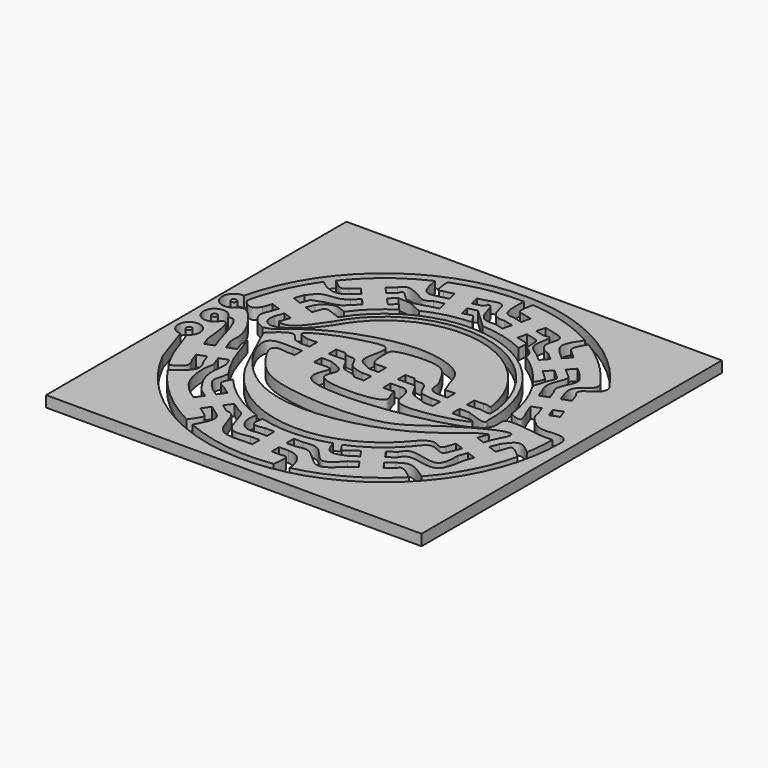
from build123d import *

# Parameters (mm, degrees)
F0_W     = 34
F0_H     = 34
F1_DEPTH = 1
F0_R     = 0.25


with BuildPart() as f1:
    # F0 (on Top) → F1 (new body)
    with BuildSketch(Plane.XY):
        Rectangle(F0_W, F0_H)
        with BuildLine():
            Line((-12.3942, -3.6043), (-13.1929, -3.895))
            Line((-13.1929, -3.895), (-13.4837, -3.0963))
            add(Edge.make_bspline(
                [(-14.4111951692, -0.3796), (-14.2723168652, -0.333150532), (-13.7637527497, -0.1630553338), (-13.6015839017, -1.8615957301), (-13.4837, -3.0963)],
                knots=[0, 0, 0, 0, 0.2730792435, 1, 1, 1, 1], degree=3))
            ThreePointArc((-14.4111951692, -0.3796), (-16.3360521087, 0.0242375493), (-14.3938864033, 0.334320404))
            add(Edge.make_bspline(
                [(-14.3938864033, 0.334320404), (-14.2314768695, 0.3888644718), (-13.6407061503, 0.5872705466), (-13.0866441252, -1.3794518051), (-12.6849, -2.8055)],
                knots=[0, 0, 0, 0, 0.2749112788, 1, 1, 1, 1], degree=3))
            Line((-12.6849, -2.8055), (-12.3942, -3.6043))
        make_face(mode=Mode.SUBTRACT)
        with BuildLine():
            Line((-12.3037, -6.3382), (-12.5944, -5.5395))
            Line((-12.5944, -5.5395), (-13.1929, -3.895))
            Line((-13.1929, -3.895), (-11.6366025934, -3.3363206687))
            Line((-11.6366025934, -3.3363206687), (-11.9623076171, -2.4413321138))
            add(Edge.make_bspline(
                [(-11.9623076171, -2.4413321138), (-12.0117438017, -2.0093642628), (-11.8778029311, -1.5889280388), (-12.1962155535, -0.4558379807), (-12.6179651821, 0.3808291546), (-14.1472270198, 2.4649739349), (-14.740530091, 1.9576579669), (-14.9547481382, 1.7849856331)],
                knots=[0, 0, 0, 0, 0.177908405, 0.3643697471, 0.5595759304, 0.8370710148, 1, 1, 1, 1], degree=3))
            ThreePointArc((-14.9547481382, 1.7849856331), (-16.667332402, 2.2391619977), (-15.5807628681, 3.6386575064))
            ThreePointArc((-15.5807628681, 3.6386575064), (-2.8095439505, 15.7513955823), (13.3619085918, 8.8011021346))
            add(Edge.make_bspline(
                [(12.3037, 6.3382), (12.1532630592, 6.5486063429), (11.7818249767, 6.9954969584), (13.105979023, 7.6972691386), (13.3587491275, 7.9789756018), (13.5794370405, 8.5435568989), (13.3619085918, 8.8011021346)],
                knots=[0, 0, 0, 0, 0.230902707, 0.5512460955, 0.7468321467, 1, 1, 1, 1], degree=3))
            Line((12.3037, 6.3382), (12.5944, 5.5395))
            Line((12.5944, 5.5395), (13.1929, 3.895))
            Line((13.1929, 3.895), (11.6366025934, 3.3363206687))
            Line((11.6366025934, 3.3363206687), (11.926, 2.5411))
            add(Edge.make_bspline(
                [(11.926, 2.5411), (11.9783592808, 1.9046605956), (12.6042999826, 1.3759503504), (13.6260807813, 0.4466593936), (15.964851719, 1.21306594), (16, 0)],
                knots=[0, 0, 0, 0, 0.3022500444, 0.6057690152, 1, 1, 1, 1], degree=3))
            ThreePointArc((16, 0), (3.6749601747, -15.5722402921), (-14.3118334643, -7.1534203631))
            Line((-14.3118334643, -7.1534203631), (-15.475182794, -3.6998244933))
            ThreePointArc((-15.475182794, -3.6998244933), (-15.7313133508, -1.7531123592), (-14.9803552777, -3.5673209932))
            Line((-14.9803552777, -3.5673209932), (-13.9958590699, -6.3382))
            ThreePointArc((-13.9958590699, -6.3382), (-13.5852221418, -7.1762517865), (-13.1244612858, -7.9878261313))
            add(Edge.make_bspline(
                [(-12.3037, -6.3382), (-12.1443201625, -6.6311046251), (-11.7878040977, -7.286301706), (-12.6485243864, -7.7380378065), (-13.1244612858, -7.9878261313)],
                knots=[0, 0, 0, 0, 0.4470481228, 1, 1, 1, 1], degree=3))
        make_face(mode=Mode.SUBTRACT)
        Polygon((12.3942, 3.6043), (13.1929, 3.895), (13.4837, 3.0963), (12.6849, 2.8055), align=None, mode=Mode.SUBTRACT)
        with BuildLine():
            Line((-13.4904, 3.0879), (-13.1997, 3.8866))
            Line((-13.1997, 3.8866), (-12.6011, 5.5311))
            Line((-12.6011, 5.5311), (-12.3104, 6.3801617362))
            add(Edge.make_bspline(
                [(-12.3104, 6.3801617362), (-12.0615672946, 6.5416639984), (-11.7932170076, 7.3717735581), (-9.9781053371, 7.4202997241), (-9.7576724511, 7.571282055), (-9.3391798437, 7.8681)],
                knots=[0, 0, 0, 0, 0.3171940039, 0.7022693868, 1, 1, 1, 1], degree=3))
            Line((-9.3391798437, 7.8681), (-8.7433, 8.4369))
            Line((-8.7433, 8.4369), (-8.1745, 7.8052))
            Line((-8.1745, 7.8052), (-9.2755568234, 9.0390177241))
            Line((-9.2755568234, 9.0390177241), (-9.9044, 8.4728))
            add(Edge.make_bspline(
                [(-9.9044, 8.4728), (-10.1851852438, 8.2487735199), (-10.7817869171, 7.8299894037), (-11.9803126556, 8.2985418933), (-12.5000296051, 8.8237408979)],
                knots=[0, 0, 0, 0, 0.4199734488, 1, 1, 1, 1], degree=3))
            ThreePointArc((-12.5000296051, 8.8237408979), (-14.0089069552, 6.1530211672), (-14.954729937, 3.2349955291))
            add(Edge.make_bspline(
                [(-14.954729937, 3.2349955291), (-14.903848545, 3.1176248561), (-14.7847609016, 2.8429193829), (-13.9617143725, 2.4096491853), (-13.6464557199, 2.8633260737), (-13.4904, 3.0879)],
                knots=[0, 0, 0, 0, 0.2736359675, 0.6404436134, 1, 1, 1, 1], degree=3))
        make_face()
        Polygon((-8.1745, 7.8052), (-6.7971020022, 8.943821583), (-7.4428, 9.6079), (-7.4136536487, 9.6341395599), (-7.9614768823, 10.2221569179), (-7.9722, 10.2125), (-8.541, 10.8442), (-9.8415, 9.6732), (-9.2728, 9.0415), (-9.2755568234, 9.0390177241), align=None)
        with BuildLine():
            Line((-7.9614768823, 10.2221569179), (-7.4136536487, 9.6341395599))
            Line((-7.4136536487, 9.6341395599), (-6.8111, 10.1766))
            add(Edge.make_bspline(
                [(-6.8111, 10.1766), (-6.4857697238, 10.1106233011), (-5.5602540008, 10.2101426251), (-4.930736312, 9.6928390914), (-4.4802636839, 9.5510594547)],
                knots=[0, 0, 0, 0, 0.4883621235, 1, 1, 1, 1], degree=3))
            ThreePointArc((-4.4802636839, 9.5510594547), (-2.5069797927, 10.2474656234), (-0.4350608214, 10.5406935951))
            add(Edge.make_bspline(
                [(-1.0306, 11.3584), (-0.8320869405, 11.0858311984), (-0.6335738809, 10.8132623967), (-0.4350608214, 10.5406935951)],
                knots=[0, 0, 0, 0, 1.0115881958, 1.0115881958, 1.0115881958, 1.0115881958], degree=3))
            Line((-1.0306, 11.3584), (-1.8554, 11.1527))
            Line((-1.8554, 11.1527), (-1.8589888717, 11.1670973804))
            Line((-1.8589888717, 11.1670973804), (-3.5534, 10.7294))
            Line((-3.5534, 10.7294), (-4.3782, 10.5237))
            add(Edge.make_bspline(
                [(-7.3406, 10.7813), (-7.2868814524, 10.930398055), (-7.1450559415, 11.3240406378), (-6.3748965753, 10.3215091839), (-5.6880220747, 10.0976471673), (-4.857468819, 10.3678056675), (-4.3782, 10.5237)],
                knots=[0, 0, 0, 0, 0.1673121203, 0.4417306125, 0.6778519521, 1, 1, 1, 1], degree=3))
            Line((-7.3406, 10.7813), (-7.9614768823, 10.2221569179))
        make_face()
        with BuildLine():
            Line((-10.4732, 9.1044), (-9.8415, 9.6732))
            Line((-9.8415, 9.6732), (-8.541, 10.8442))
            Line((-8.541, 10.8442), (-7.9093, 11.4129))
            add(Edge.make_bspline(
                [(-7.9093, 11.4129), (-7.7057717161, 11.6695607), (-7.3319160058, 12.0595873679), (-5.9658578674, 11.4039720868), (-5.1996716391, 10.8639860584), (-4.7689947782, 11.2526867573), (-4.5838, 11.3485)],
                knots=[0, 0, 0, 0, 0.229691089, 0.5396349406, 0.7851515706, 1, 1, 1, 1], degree=3))
            Line((-4.5838, 11.3485), (-3.759, 11.5541))
            Line((-3.759, 11.5541), (-3.5534, 10.7294))
            Line((-3.5534, 10.7294), (-1.8589888717, 11.1670973804))
            Line((-1.8589888717, 11.1670973804), (-2.061, 11.9775))
            Line((-2.061, 11.9775), (-2.0470912482, 11.9809674904))
            Line((-2.0470912482, 11.9809674904), (-2.2283101297, 12.7639855448))
            Line((-2.2283101297, 12.7639855448), (-2.2447, 12.7599))
            Line((-2.2447, 12.7599), (-2.4503, 13.5847))
            Line((-2.4503, 13.5847), (-4.1483, 13.1613))
            Line((-4.1483, 13.1613), (-3.9427, 12.3365))
            Line((-3.9427, 12.3365), (-3.9436994616, 12.3362508315))
            Line((-3.9436994616, 12.3362508315), (-4.7674, 12.1309))
            add(Edge.make_bspline(
                [(-4.7674, 12.1309), (-5.170627439, 12.0353381455), (-6.0964165448, 11.8159331266), (-6.3101863865, 13.107755444), (-6.4308487751, 13.8369245594)],
                knots=[0, 0, 0, 0, 0.4355499935, 1, 1, 1, 1], degree=3))
            ThreePointArc((-6.4308487751, 13.8369245594), (-9.4341166346, 11.9922366785), (-11.9340037927, 9.507673254))
            add(Edge.make_bspline(
                [(-10.4732, 9.1044), (-10.6267282888, 8.9658918579), (-11.0020516296, 8.6272875589), (-11.5878373022, 9.1806607329), (-11.9340037927, 9.507673254)],
                knots=[0, 0, 0, 0, 0.4090560649, 1, 1, 1, 1], degree=3))
        make_face()
        with BuildLine():
            Line((4.1482, 13.1155), (2.4502, 13.5389))
            Line((2.4502, 13.5389), (2.2446, 12.7142))
            Line((2.2446, 12.7142), (1.4198, 12.9198))
            add(Edge.make_bspline(
                [(1.4198, 12.9198), (1.1152116842, 12.9363907951), (0.3226856843, 12.9795593468), (0.4050922136, 14.4047622272), (0.4558277745, 15.2822226423)],
                knots=[0, 0, 0, 0, 0.3843259601, 1, 1, 1, 1], degree=3))
            ThreePointArc((0.4558277745, 15.2822226423), (-2.6351887685, 15.0602087636), (-5.6179398671, 14.2194535583))
            add(Edge.make_bspline(
                [(-4.9731, 12.9557), (-5.1209878518, 12.8994483845), (-5.5381876164, 12.7407594831), (-5.586653828, 13.6393761278), (-5.6179398671, 14.2194535583)],
                knots=[0, 0, 0, 0, 0.3544773136, 1, 1, 1, 1], degree=3))
            Line((-4.9731, 12.9557), (-4.1483, 13.1613))
            Line((-4.1483, 13.1613), (-2.4503, 13.5847))
            Line((-2.4503, 13.5847), (-2.420001286, 13.5922526377))
            Line((-2.420001286, 13.5922526377), (-1.6255, 13.7903))
            add(Edge.make_bspline(
                [(-1.6255, 13.7903), (-1.121375582, 13.9971661434), (-0.2367976915, 14.2981958262), (-0.1964957184, 12.5073416027), (0.6225092031, 12.0673849013), (1.2147, 12.1427)],
                knots=[0, 0, 0, 0, 0.3192674894, 0.65850866, 1, 1, 1, 1], degree=3))
            Line((1.2147, 12.1427), (2.0394, 11.9371))
            Line((2.0394, 11.9371), (1.8338, 11.1124))
            Line((1.8338, 11.1124), (3.5318, 10.689))
            Line((3.5318, 10.689), (3.7374, 11.5138))
            Line((3.7374, 11.5138), (3.7410889477, 11.5128799993))
            Line((3.7410889477, 11.5128799993), (4.1482, 13.1155))
        make_face()
        with BuildLine():
            Line((4.3565, 10.4834), (3.5318, 10.689))
            Line((3.5318, 10.689), (1.8338, 11.1124))
            Line((1.8338, 11.1124), (1.009, 11.318))
            add(Edge.make_bspline(
                [(-1.4199, 12.9655), (-1.25342205, 13.2474678762), (-0.9357890534, 13.5804283924), (-0.6499830843, 12.177085026), (-0.0903228978, 11.2502381734), (0.6226948455, 11.3007287424), (1.009, 11.318)],
                knots=[0, 0, 0, 0, 0.1911150422, 0.4692984539, 0.7365460967, 1, 1, 1, 1], degree=3))
            Line((-1.4199, 12.9655), (-2.2283101297, 12.7639855448))
            Line((-2.2283101297, 12.7639855448), (-2.0470912482, 11.9809674904))
            Line((-2.0470912482, 11.9809674904), (-1.2363, 12.1831))
            add(Edge.make_bspline(
                [(-1.2363, 12.1831), (-0.9981474419, 11.9640061069), (-0.4815100967, 11.4887137643), (0.1575165908, 10.8727296236), (0.5019733217, 10.5406935951)],
                knots=[0, 0, 0, 0, 0.4609665956, 1, 1, 1, 1], degree=3))
            ThreePointArc((0.5019733217, 10.5406935951), (2.5921994265, 10.2293059791), (4.5784656793, 9.507673254))
            add(Edge.make_bspline(
                [(4.5784656793, 9.507673254), (4.6203316312, 9.8458634535), (4.6858402757, 10.375037652), (4.4438401471, 10.4546625995), (4.3565, 10.4834)],
                knots=[0, 0, 0, 0, 0.6390904932, 1, 1, 1, 1], degree=3))
        make_face()
        with BuildLine():
            Line((5.4089, 1.274), (7.1589, 1.274))
            Line((7.1589, 1.274), (8.0089, 1.274))
            add(Edge.make_bspline(
                [(8.6950551312, 1.274), (8.7135448857, 1.137247083), (8.732435837, 1.1827347613), (8.3442768655, 1.2853948614), (8.1721126747, 1.3302229059), (8.0089, 1.274)],
                knots=[0, 0, 0, 0, 0.2124418174, 0.59133002, 1, 1, 1, 1], degree=3))
            ThreePointArc((8.6950551312, 1.274), (1.7310096147, 8.6157219922), (-7.5282589532, 4.5334729366))
            add(Edge.make_bspline(
                [(-11.9403, 2.5119), (-11.9881764879, 2.2689087752), (-12.0863597157, 1.6998449861), (-10.9189969773, 0.7120242228), (-8.5412217724, 2.7274767009), (-7.5282589532, 4.5334729366)],
                knots=[0, 0, 0, 0, 0.2150081445, 0.4540946447, 1, 1, 1, 1], degree=3))
            Line((-11.9403, 2.5119), (-11.6496, 3.3106))
            Line((-11.6496, 3.3106), (-10.8509, 3.0199))
            Line((-10.8509, 3.0199), (-12.4022014526, 3.5923254807))
            Line((-12.4022014526, 3.5923254807), (-12.6917, 2.7972))
            add(Edge.make_bspline(
                [(-11.5386992693, 0.6662255619), (-11.8913120078, 0.8179761572), (-12.4213247277, 1.0716229406), (-13.0398470394, 2.0638680804), (-12.8024693064, 2.5546018407), (-12.6917, 2.7972)],
                knots=[0, 0, 0, 0, 0.3475137521, 0.6975277083, 1, 1, 1, 1], degree=3))
            add(Edge.make_bspline(
                [(4.5364908874, 1.238787896), (3.9627479239, 2.5122082157), (4.0186374182, 3.982106384), (-0.9196606309, 5.7026301853), (-7.886190516, 3.4527672255), (-10.7020523261, 0.9528352178), (-10.942737128, 0.8251489607), (-11.5386992693, 0.6662255619)],
                knots=[0, 0, 0, 0, 0.1775065884, 0.4007008729, 0.6982174298, 0.8922278832, 1, 1, 1, 1], degree=3))
            Line((4.5364908874, 1.238787896), (5.4089, 1.274))
        make_face()
        with BuildLine():
            Line((-12.6011, 5.5311), (-11.0496331904, 4.9586135031))
            Line((-11.0496331904, 4.9586135031), (-10.7603, 5.6516639888))
            add(Edge.make_bspline(
                [(-10.7603, 5.6516639888), (-10.6590669741, 5.8282101709), (-9.6806672802, 6.7114978747), (-9.1507335406, 6.3773146725), (-8.5099041462, 6.1377473176)],
                knots=[0, 0, 0, 0, 0.4884792335, 1, 1, 1, 1], degree=3))
            ThreePointArc((-8.5099041462, 6.1377473176), (-7.2196260755, 7.6136331697), (-5.6773239539, 8.8237408979))
            Line((-5.6773239539, 8.8237408979), (-6.2238881364, 9.454227984))
            Line((-6.2238881364, 9.454227984), (-6.7971020022, 8.943821583))
            Line((-6.7971020022, 8.943821583), (-8.1745, 7.8052))
            Line((-8.1745, 7.8052), (-8.8062, 7.2365))
            add(Edge.make_bspline(
                [(-11.5117, 6.0391), (-11.241945027, 6.1398149679), (-10.5804116443, 6.4338425464), (-9.2845947233, 6.6135455062), (-8.9613694331, 7.0741637435), (-8.8062, 7.2365)],
                knots=[0, 0, 0, 0, 0.3366677916, 0.714366698, 1, 1, 1, 1], degree=3))
            Line((-11.5117, 6.0391), (-11.8024, 5.2404))
            Line((-11.8024, 5.2404), (-12.6011, 5.5311))
        make_face()
        with BuildLine():
            Line((7.1589, 1.274), (7.1515685733, -0.3796))
            Line((7.1515685733, -0.3796), (7.9978, -0.3796))
            add(Edge.make_bspline(
                [(7.9978, -0.3796), (8.8075763672, -0.6789061682), (9.9774312871, -1.1113030714), (9.8436825933, -0.6178083398), (9.8025150645, -0.4659118391)],
                knots=[0, 0, 0, 0, 0.6922023863, 1, 1, 1, 1], degree=3))
            ThreePointArc((9.8025150645, -0.4659118391), (2.9260274965, 9.3672161564), (-8.3248242736, 5.1965061575))
            add(Edge.make_bspline(
                [(-9.9616, 5.4631), (-9.9339217323, 5.5838318008), (-9.7758820597, 5.7348329677), (-8.9231821704, 5.4711806428), (-8.5240136762, 5.271080076), (-8.3248242736, 5.1965061575)],
                knots=[0, 0, 0, 0, 0.2297679553, 0.6317440003, 1, 1, 1, 1], degree=3))
            Line((-9.9616, 5.4631), (-10.2523, 4.6644))
            Line((-10.2523, 4.6644), (-10.8509, 3.0199))
            Line((-10.8509, 3.0199), (-11.1416, 2.2212))
            add(Edge.make_bspline(
                [(-11.1416, 2.2212), (-11.367033854, 2.0184046271), (-9.9211304042, 1.699303502), (-9.2457984883, 3.0535227151), (-8.2689829875, 4.3692274518)],
                knots=[0, 0, 0, 0, 0.303792392, 1, 1, 1, 1], degree=3))
            ThreePointArc((-8.2689829875, 4.3692274518), (1.6400397513, 9.2074153695), (9.2690559104, 1.2453235332))
            add(Edge.make_bspline(
                [(8.0089, 0.424), (8.2751776405, 0.4931352439), (8.6231868319, 0.4466024128), (9.4946709422, 0.2552293507), (9.2389966625, 0.8864359802), (9.2690559104, 1.2453235332)],
                knots=[0, 0, 0, 0, 0.3323693044, 0.63636399, 1, 1, 1, 1], degree=3))
            Line((8.0089, 0.424), (7.1589, 0.424))
            Line((7.1589, 0.424), (7.1589, 1.274))
        make_face()
        with BuildLine():
            Line((9.9928, -5.4971), (10.2835, -4.6984))
            Line((10.2835, -4.6984), (10.882, -3.0539))
            Line((10.882, -3.0539), (11.1727, -2.2552))
            add(Edge.make_bspline(
                [(11.1727, -2.2552), (11.3635605383, -2.088727338), (10.3795530471, -2.4507621942), (9.2287713902, -3.4771117222), (5.1496307176, -6.6711114541), (-6.405652194, -8.6862179166), (-11.4127956811, -0.2004601857), (-8.8892731099, -0.3321896315), (-7.9387821254, -0.3796)],
                knots=[0, 0, 0, 0, 0.0549449069, 0.1703248202, 0.3628558972, 0.650968695, 0.873742605, 1, 1, 1, 1], degree=3))
            Line((-7.9387821254, -0.3796), (-7.1022, -0.3796))
            Line((-7.1022, -0.3796), (-7.1022, -1.2296))
            Line((-7.1022, -1.2296), (-7.0948685733, 0.424))
            Line((-7.0948685733, 0.424), (-7.9411, 0.424))
            add(Edge.make_bspline(
                [(-7.9411, 0.424), (-8.1387626651, 0.5455507622), (-8.6363770273, 0.4460558834), (-9.1301364113, 1.739517204), (-10.6642774217, 0.3591795205), (-10.874235709, 0.2074026958), (-10.9404390678, 0)],
                knots=[0, 0, 0, 0, 0.2135462979, 0.4671397972, 0.8046413902, 1, 1, 1, 1], degree=3))
            Line((-10.9404390678, 0), (-9.1018099338, -3.9457785897))
            ThreePointArc((-9.1018099338, -3.9457785897), (-1.2853830216, -9.8366611834), (7.7822968093, -6.1520703119))
            add(Edge.make_bspline(
                [(7.7822968093, -6.1520703119), (8.1165718608, -5.7486038918), (8.9119140503, -5.2100511268), (9.7854361018, -5.9826995714), (9.9368312488, -5.6364764696), (9.9928, -5.4971)],
                knots=[0, 0, 0, 0, 0.432184529, 0.7734287391, 1, 1, 1, 1], degree=3))
        make_face()
        with BuildLine():
            Line((-5.3411, 1.274), (-5.3484314267, -0.3796))
            Line((-5.3484314267, -0.3796), (-4.5022, -0.3796))
            add(Edge.make_bspline(
                [(1.7478, -1.2296), (1.8987992517, -1.0310328305), (1.9060642571, -1.6963831779), (2.7122839482, -2.7432680141), (-0.2502879966, -3.30740596), (-4.2305515074, -2.9178456867), (-2.6931548479, -1.0216335274), (-3.8272211559, -0.6045908579), (-4.5022, -0.3796)],
                knots=[0, 0, 0, 0, 0.0801148482, 0.2156914123, 0.4332939637, 0.6781703067, 0.8299334376, 1, 1, 1, 1], degree=3))
            Line((1.7478, -1.2296), (0.8978, -1.2296))
            Line((0.8978, -1.2296), (-0.8522, -1.2296))
            Line((-0.8522, -1.2296), (-1.7022, -1.2296))
            add(Edge.make_bspline(
                [(-4.4911, 0.424), (-4.2697394418, 0.3990315027), (-3.6370231423, 0.6691282374), (-3.256170332, -1.0939907929), (-2.2475877915, -0.7288412777), (-1.7022, -1.2296)],
                knots=[0, 0, 0, 0, 0.2610713741, 0.6127264646, 1, 1, 1, 1], degree=3))
            Line((-4.4911, 0.424), (-5.3411, 0.424))
            Line((-5.3411, 0.424), (-5.3411, 1.274))
        make_face()
        with BuildLine():
            Line((-7.0911, 1.274), (-5.3411, 1.274))
            Line((-5.3411, 1.274), (-4.4911, 1.274))
            add(Edge.make_bspline(
                [(-4.4911, 1.274), (-4.2066480249, 0.8576591212), (-3.3459031432, 1.261542445), (-3.1022870182, 0.0255582717), (-2.4501311127, -0.2457753872), (-1.7022, -0.3796)],
                knots=[0, 0, 0, 0, 0.3230641905, 0.6159434621, 1, 1, 1, 1], degree=3))
            Line((-1.7022, -0.3796), (-0.8522, -0.3796))
            Line((-0.8522, -0.3796), (-0.8522, -1.2296))
            Line((-0.8522, -1.2296), (-0.8448685733, 0.424))
            Line((-0.8448685733, 0.424), (-1.6911, 0.424))
            add(Edge.make_bspline(
                [(-1.6911, 0.424), (-1.8753726582, 0.5357575653), (-2.3626376127, 0.7068642345), (-3.2918373073, 1.2735647845), (-1.9787632156, 4.3134480225), (-4.9075597247, 3.4148832625), (-6.1344717273, 3.2212633273), (-9.5026859301, 1.637606867), (-8.3673555018, 1.3772379103), (-7.9411, 1.274)],
                knots=[0, 0, 0, 0, 0.0985594278, 0.2076445344, 0.3808867492, 0.5407361635, 0.6986236082, 0.8896291024, 1, 1, 1, 1], degree=3))
            Line((-7.9411, 1.274), (-7.0911, 1.274))
        make_face()
        with BuildLine():
            Line((-0.8411, 1.274), (0.9089, 1.274))
            Line((0.9089, 1.274), (1.7589, 1.274))
            add(Edge.make_bspline(
                [(1.7589, 1.274), (2.0404650725, 0.861884564), (2.9227705118, 1.3686875954), (3.3998228392, -0.2927057053), (3.7546970416, -0.2691018453), (4.5478, -0.3796)],
                knots=[0, 0, 0, 0, 0.3197854126, 0.6572728895, 1, 1, 1, 1], degree=3))
            Line((4.5478, -0.3796), (5.3978, -0.3796))
            Line((5.3978, -0.3796), (5.3978, -1.2296))
            Line((5.3978, -1.2296), (5.4051314267, 0.424))
            Line((5.4051314267, 0.424), (4.5589, 0.424))
            add(Edge.make_bspline(
                [(4.5589, 0.424), (4.099152362, 0.4466346343), (3.6141091513, 0.7603076277), (3.7139776262, 1.5789216553), (3.1080190632, 2.5499356457), (2.2316385457, 4.3028765582), (-2.0408144059, 3.7681415908), (-2.250821311, 3.1954434565), (-2.1901586972, 1.1005521127), (-1.6911, 1.274)],
                knots=[0, 0, 0, 0, 0.1158475694, 0.2160201593, 0.3422325102, 0.5029653503, 0.7364482395, 0.8383239014, 1, 1, 1, 1], degree=3))
            Line((-1.6911, 1.274), (-0.8411, 1.274))
        make_face()
        with BuildLine():
            Line((0.9089, 1.274), (0.9015685733, -0.3796))
            Line((0.9015685733, -0.3796), (1.7478, -0.3796))
            add(Edge.make_bspline(
                [(7.9978, -1.2296), (8.3658110914, -1.2003364459), (8.8684445567, -1.1544661219), (9.500928887, -1.5548807549), (2.5221376381, -3.425219926), (2.9640664626, -0.9204674204), (2.2331238426, -0.2721899005), (1.7478, -0.3796)],
                knots=[0, 0, 0, 0, 0.1583423331, 0.2284234, 0.6206273602, 0.8254480708, 1, 1, 1, 1], degree=3))
            Line((7.9978, -1.2296), (7.1478, -1.2296))
            Line((7.1478, -1.2296), (5.3978, -1.2296))
            Line((5.3978, -1.2296), (4.5478, -1.2296))
            add(Edge.make_bspline(
                [(1.7589, 0.424), (1.9808123417, 0.398969264), (2.6115006378, 0.6478512369), (3.0054977795, -0.9816479709), (4.0346141905, -0.9222415392), (4.5478, -1.2296)],
                knots=[0, 0, 0, 0, 0.2617221444, 0.6130040218, 1, 1, 1, 1], degree=3))
            Line((1.7589, 0.424), (0.9089, 0.424))
            Line((0.9089, 0.424), (0.9089, 1.274))
        make_face()
        with BuildLine():
            Line((10.882, -3.0539), (12.4333890757, -3.6263578133))
            Line((12.4333890757, -3.6263578133), (12.7228, -2.8311))
            add(Edge.make_bspline(
                [(12.7228, -2.8311), (13.0441306701, -2.3667890734), (13.7070214494, -1.4487834313), (14.5396323816, -2.1951720542), (15.0194863644, -2.5851184472)],
                knots=[0, 0, 0, 0, 0.4944533431, 1, 1, 1, 1], degree=3))
            ThreePointArc((15.0194863644, -2.5851184472), (15.1850223961, -1.2972674613), (15.2403349057, 0))
            add(Edge.make_bspline(
                [(15.2403349057, 0), (15.0869898683, 0.0708579249), (14.5106482449, -0.2098554774), (9.7656986479, 0.9349279526), (12.527123705, -2.8403982227), (-6.571262439, -5.4755372008), (-3.3063791332, -1.1003045145), (-4.1797459302, -1.2086908771), (-4.5022, -1.2296)],
                knots=[0, 0, 0, 0, 0.0878005772, 0.2762315068, 0.4032218149, 0.7798673597, 0.9173702795, 1, 1, 1, 1], degree=3))
            Line((-4.5022, -1.2296), (-5.3522, -1.2296))
            Line((-5.3522, -1.2296), (-7.1022, -1.2296))
            Line((-7.1022, -1.2296), (-7.9493507893, -1.2296))
            add(Edge.make_bspline(
                [(11.9715, -2.5459), (12.3262344548, -1.8955422874), (13.2499992123, -0.0665222138), (7.1162459467, -3.3863015385), (4.4930724291, -6.1611850122), (-6.0006976935, -5.8238459428), (-8.1433606083, -3.3606023744), (-9.4879281424, -1.2285801287), (-8.4956101679, -1.0608544555), (-7.9493507893, -1.2296)],
                knots=[0, 0, 0, 0, 0.0954708758, 0.268209523, 0.435360059, 0.6736309055, 0.8148908989, 0.9190342019, 1, 1, 1, 1], degree=3))
            Line((11.9715, -2.5459), (11.6808, -3.3446))
            Line((11.6808, -3.3446), (10.882, -3.0539))
        make_face()
        with BuildLine():
            Line((7.1622, -8.7432), (8.1046542785, -10.1019616103))
            Line((8.1046542785, -10.1019616103), (8.7979, -9.6166))
            add(Edge.make_bspline(
                [(8.7979, -9.6166), (9.0939961188, -9.4183719181), (9.8012285876, -8.9448995326), (10.8858838139, -9.6986927914), (11.5164278151, -10.1368963847)],
                knots=[0, 0, 0, 0, 0.418668729, 1, 1, 1, 1], degree=3))
            ThreePointArc((11.5164278151, -10.1368963847), (13.6280548378, -7.0470489763), (14.9287702516, -3.5378802568))
            add(Edge.make_bspline(
                [(13.5216, -3.1219), (13.568165107, -2.9403429474), (13.6979285357, -2.4343961732), (14.4479141124, -3.1067792556), (14.9287702516, -3.5378802568)],
                knots=[0, 0, 0, 0, 0.358846151, 1, 1, 1, 1], degree=3))
            Line((13.5216, -3.1219), (13.2308, -3.9206))
            Line((13.2308, -3.9206), (12.6323, -5.5651))
            Line((12.6323, -5.5651), (12.3416, -6.3638))
            add(Edge.make_bspline(
                [(8.346, -8.952), (8.5111157256, -8.6793943942), (8.9410359638, -7.9695972714), (11.8937448879, -9.2698693646), (12.1922905272, -7.3326483463), (12.3416, -6.3638)],
                knots=[0, 0, 0, 0, 0.2376262199, 0.6187195116, 1, 1, 1, 1], degree=3))
            Line((8.346, -8.952), (7.6498, -9.4395))
            Line((7.6498, -9.4395), (7.1622, -8.7432))
        make_face()
        with BuildLine():
            Line((6.6681, -11.1079), (7.1556, -11.8042))
            Line((7.1556, -11.8042), (6.2131784095, -10.4454855168))
            Line((6.2131784095, -10.4454855168), (5.52, -10.9308))
            add(Edge.make_bspline(
                [(5.52, -10.9308), (4.9877629047, -11.1413736543), (3.9498177001, -11.5520250661), (3.6187227566, -10.5578472002), (3.4574065357, -10.0734634325)],
                knots=[0, 0, 0, 0, 0.5127795696, 1, 1, 1, 1], degree=3))
            ThreePointArc((3.4574065357, -10.0734634325), (0.3639623706, -10.6440526526), (-2.7612322088, -10.286103352))
            add(Edge.make_bspline(
                [(-1.7434, -11.2748), (-2.1681125907, -11.3590035137), (-3.0114149145, -11.5261966234), (-2.8442218048, -10.69746208), (-2.7612322088, -10.286103352)],
                knots=[0, 0, 0, 0, 0.5036302863, 1, 1, 1, 1], degree=3))
            Line((-1.7434, -11.2748), (-0.8934, -11.2748))
            Line((-0.8934, -11.2748), (0.8566, -11.2748))
            Line((0.8566, -11.2748), (1.7066, -11.2748))
            add(Edge.make_bspline(
                [(1.7066, -11.2748), (2.2101481337, -11.2051030942), (3.2734474687, -11.0579301259), (4.4035322841, -13.3058094476), (5.4469512657, -12.1678189975), (5.9718, -11.5954)],
                knots=[0, 0, 0, 0, 0.3089579104, 0.6523998772, 1, 1, 1, 1], degree=3))
            Line((5.9718, -11.5954), (6.6681, -11.1079))
        make_face()
        with BuildLine():
            Line((8.5891, -10.8004), (7.1556, -11.8042))
            Line((7.1556, -11.8042), (6.4593, -12.2917))
            add(Edge.make_bspline(
                [(1.7066, -12.1248), (2.1101588552, -12.014871331), (3.0477224864, -11.759480771), (4.6229238921, -14.1500122036), (5.847750015, -12.9105551438), (6.4593, -12.2917)],
                knots=[0, 0, 0, 0, 0.2745176249, 0.6377700252, 1, 1, 1, 1], degree=3))
            Line((1.7066, -12.1248), (0.8566, -12.1248))
            Line((0.8566, -12.1248), (0.8566, -11.2748))
            Line((0.8566, -11.2748), (0.8492685733, -12.9284))
            Line((0.8492685733, -12.9284), (1.6955, -12.9284))
            add(Edge.make_bspline(
                [(1.6955, -12.9284), (2.1034386744, -12.9764488273), (2.920015105, -13.1141418067), (3.3692473188, -14.2595355752), (3.4048007801, -14.9490433074)],
                knots=[0, 0, 0, 0, 0.4426806291, 1, 1, 1, 1], degree=3))
            ThreePointArc((3.4048007801, -14.9490433074), (7.4384796468, -13.4065500672), (10.882, -10.8004))
            add(Edge.make_bspline(
                [(9.2854, -10.3129), (9.364270798, -10.1686097582), (9.5910855764, -9.7536632882), (10.3723841106, -10.387178449), (10.882, -10.8004)],
                knots=[0, 0, 0, 0, 0.3477321829, 1, 1, 1, 1], degree=3))
            Line((9.2854, -10.3129), (8.5891, -10.8004))
        make_face()
        with BuildLine():
            Line((1.6955, -13.7784), (0.8455, -13.7784))
            Line((0.8455, -13.7784), (-0.9045, -13.7784))
            Line((-0.9045, -13.7784), (-1.7545, -13.7784))
            add(Edge.make_bspline(
                [(-5.5577, -10.9046), (-5.3076697187, -10.9262595776), (-4.6138330938, -10.9863651303), (-4.294265817, -13.9166634563), (-2.5921616365, -13.8240018395), (-1.7545, -13.7784)],
                knots=[0, 0, 0, 0, 0.2224679281, 0.6173508089, 1, 1, 1, 1], degree=3))
            Line((-5.5577, -10.9046), (-6.254, -10.4171))
            Line((-6.254, -10.4171), (-5.7664, -9.7208))
            Line((-5.7664, -9.7208), (-6.7208820094, -11.0711829965))
            Line((-6.7208820094, -11.0711829965), (-6.0277, -11.5565))
            add(Edge.make_bspline(
                [(-6.0277, -11.5565), (-5.7579907351, -11.7510804331), (-5.0965966758, -12.2282399497), (-5.7256161555, -13.3822736031), (-6.0981283698, -14.0657049521)],
                knots=[0, 0, 0, 0, 0.4077890649, 1, 1, 1, 1], degree=3))
            ThreePointArc((-6.0981283698, -14.0657049521), (-2.0514581463, -15.1928517694), (2.149234293, -15.1793286204))
            add(Edge.make_bspline(
                [(1.6955, -13.7784), (1.8741725661, -13.7302054196), (2.3667984497, -13.597326051), (2.2339190812, -14.5635490984), (2.149234293, -15.1793286204)],
                knots=[0, 0, 0, 0, 0.3626942311, 1, 1, 1, 1], degree=3))
        make_face()
        with BuildLine():
            Line((-6.5152, -12.2528), (-7.2115, -11.7653))
            Line((-7.2115, -11.7653), (-8.645, -10.7615))
            Line((-8.645, -10.7615), (-9.3413, -10.274))
            add(Edge.make_bspline(
                [(-10.746, -5.7831), (-10.6308050481, -5.9503719018), (-10.9167704302, -6.6050270751), (-10.717338453, -8.9554443755), (-9.8290388275, -9.8311922953), (-9.3413, -10.274)],
                knots=[0, 0, 0, 0, 0.2327717258, 0.6328803681, 1, 1, 1, 1], degree=3))
            Line((-10.746, -5.7831), (-11.0367, -4.9843))
            Line((-11.0367, -4.9843), (-10.238, -4.6936))
            Line((-10.238, -4.6936), (-11.7943854523, -5.2523109379))
            Line((-11.7943854523, -5.2523109379), (-11.5049, -6.0475))
            add(Edge.make_bspline(
                [(-11.5049, -6.0475), (-11.2986297054, -6.3938075554), (-10.8036382397, -7.2248495858), (-11.9904578203, -8.1175794249), (-12.6827120569, -8.6382954826)],
                knots=[0, 0, 0, 0, 0.4167148504, 1, 1, 1, 1], degree=3))
            ThreePointArc((-12.6827120569, -8.6382954826), (-10.1234570859, -11.5319968172), (-6.9226152264, -13.6948432773))
            add(Edge.make_bspline(
                [(-6.5152, -12.2528), (-6.400495866, -12.324527286), (-6.0665358684, -12.5333605985), (-6.5833255709, -13.2345132223), (-6.9226152264, -13.6948432773)],
                knots=[0, 0, 0, 0, 0.343466687, 1, 1, 1, 1], degree=3))
        make_face()
        with BuildLine():
            Line((-8.645, -10.7615), (-7.6905510951, -9.4111638391))
            Line((-7.6905510951, -9.4111638391), (-8.3838, -8.9258))
            add(Edge.make_bspline(
                [(-8.3838, -8.9258), (-8.7703128895, -8.5247170649), (-9.425183514, -7.8998040442), (-8.992385735, -7.0530858832), (-9.0439439682, -6.6951729153), (-8.9289394875, -6.4676144444)],
                knots=[0, 0, 0, 0, 0.4156780489, 0.7236293585, 1, 1, 1, 1], degree=3))
            ThreePointArc((-8.9289394875, -6.4676144444), (-9.8482378002, -4.9566328494), (-10.5140972883, -3.3180951141))
            Line((-10.5140972883, -3.3180951141), (-11.1071672291, -1.5502814204))
            Line((-11.1071672291, -1.5502814204), (-11.1071672291, -2.3054401588))
            Line((-11.1071672291, -2.3054401588), (-10.8365, -3.0491))
            Line((-10.8365, -3.0491), (-10.238, -4.6936))
            Line((-10.238, -4.6936), (-9.9615668878, -5.4531016399))
            add(Edge.make_bspline(
                [(-9.9615668878, -5.4531016399), (-10.0598148489, -6.2570669942), (-10.2354872469, -7.7145535377), (-9.3211331292, -9.02182969), (-8.8538, -9.5777)],
                knots=[0, 0, 0, 0, 0.5019084809, 1, 1, 1, 1], degree=3))
            Line((-8.8538, -9.5777), (-8.1575, -10.0652))
            Line((-8.1575, -10.0652), (-8.645, -10.7615))
        make_face()
        with BuildLine():
            Line((-0.9045, -13.7784), (-0.8971685733, -12.1248))
            Line((-0.8971685733, -12.1248), (-1.7434, -12.1248))
            add(Edge.make_bspline(
                [(-1.7434, -12.1248), (-2.0955153174, -12.1891363001), (-2.816750876, -12.3209159333), (-3.6703724759, -11.286793843), (-3.5340079876, -10.4968816239), (-3.4649390727, -10.0967893377)],
                knots=[0, 0, 0, 0, 0.3200807743, 0.6556194083, 1, 1, 1, 1], degree=3))
            ThreePointArc((-3.4649390727, -10.0967893377), (-6.0337914316, -8.8059252022), (-8.1649880273, -6.8763310146))
            add(Edge.make_bspline(
                [(-7.8962, -8.2295), (-8.182179252, -8.101079484), (-8.7844610867, -7.8306215976), (-8.3782955088, -7.2049285505), (-8.1649880273, -6.8763310146)],
                knots=[0, 0, 0, 0, 0.4748262947, 1, 1, 1, 1], degree=3))
            Line((-7.8962, -8.2295), (-7.1999, -8.717))
            Line((-7.1999, -8.717), (-5.7664, -9.7208))
            Line((-5.7664, -9.7208), (-5.0701, -10.2083))
            add(Edge.make_bspline(
                [(-5.0701, -10.2083), (-4.8222751861, -10.3033537509), (-4.1687787811, -10.5540037305), (-3.8797595468, -13.3627358913), (-2.4328869692, -13.0670408589), (-1.7545, -12.9284)],
                knots=[0, 0, 0, 0, 0.2449814787, 0.6459987325, 1, 1, 1, 1], degree=3))
            Line((-1.7545, -12.9284), (-0.9045, -12.9284))
            Line((-0.9045, -12.9284), (-0.9045, -13.7784))
        make_face()
        with BuildLine():
            Line((5.0324, -10.2345), (5.7287, -9.747))
            Line((5.7287, -9.747), (7.1622, -8.7432))
            Line((7.1622, -8.7432), (7.8585, -8.2557))
            add(Edge.make_bspline(
                [(7.8585, -8.2557), (8.0584421819, -7.9528884332), (8.5577170278, -7.1967388457), (11.5019371818, -8.5330804311), (11.5298143536, -6.8589452008), (11.5429, -6.0731)],
                knots=[0, 0, 0, 0, 0.2616749597, 0.6534275254, 1, 1, 1, 1], degree=3))
            Line((11.5429, -6.0731), (11.8336, -5.2743))
            Line((11.8336, -5.2743), (12.6323, -5.5651))
            Line((12.6323, -5.5651), (11.080910782, -4.9926421342))
            Line((11.080910782, -4.9926421342), (10.7915, -5.7878))
            add(Edge.make_bspline(
                [(10.7915, -5.7878), (10.6822412031, -6.0868230639), (10.4362040925, -6.7601855089), (9.096642484, -5.6365813303), (8.5070188457, -6.4352325501), (8.207757026, -6.840585731)],
                knots=[0, 0, 0, 0, 0.2823167292, 0.6357418739, 1, 1, 1, 1], degree=3))
            ThreePointArc((8.207757026, -6.840585731), (6.3411408348, -8.599466347), (4.1091499624, -9.8628482258))
            add(Edge.make_bspline(
                [(5.0324, -10.2345), (4.8977618693, -10.3852823961), (4.5876747533, -10.7325516139), (4.2820654033, -10.1771164678), (4.1091499624, -9.8628482258)],
                knots=[0, 0, 0, 0, 0.4341945335, 1, 1, 1, 1], degree=3))
        make_face()
        with BuildLine():
            Line((10.8365, 3.0491), (10.238, 4.6936))
            Line((10.238, 4.6936), (9.9473, 5.4923))
            add(Edge.make_bspline(
                [(9.8829, 8.4324), (10.1443278982, 8.2826383453), (10.2720082228, 7.8217847604), (9.6768540206, 6.8038846605), (9.6942417171, 5.9751906304), (9.9473, 5.4923)],
                knots=[0, 0, 0, 0, 0.2674606079, 0.6146843977, 1, 1, 1, 1], degree=3))
            Line((9.8829, 8.4324), (9.2512, 9.0011))
            Line((9.2512, 9.0011), (9.82, 9.6328))
            Line((9.82, 9.6328), (8.7080024524, 8.4087770386))
            Line((8.7080024524, 8.4087770386), (9.3369, 7.8426))
            add(Edge.make_bspline(
                [(9.3369, 7.8426), (9.4603371286, 7.753163028), (9.7595628149, 7.5363576014), (9.254159777, 6.6887888908), (9.099477786, 5.9522009212), (9.0149277821, 5.5495779961)],
                knots=[0, 0, 0, 0, 0.2414873674, 0.5853929368, 1, 1, 1, 1], degree=3))
            ThreePointArc((9.0149277821, 5.5495779961), (9.9934082712, 3.4926393998), (10.5092179943, 1.274))
            add(Edge.make_bspline(
                [(10.5092179943, 1.274), (10.9499693161, 1.095224881), (11.8792030304, 0.7183142296), (11.3863070509, 1.7225108697), (11.1272, 2.2504)],
                knots=[0, 0, 0, 0, 0.4743169721, 1, 1, 1, 1], degree=3))
            Line((11.1272, 2.2504), (10.8365, 3.0491))
        make_face()
        with BuildLine():
            Line((10.238, 4.6936), (11.7943854523, 5.2523109379))
            Line((11.7943854523, 5.2523109379), (11.5049, 6.0475))
            add(Edge.make_bspline(
                [(11.5049, 6.0475), (11.4081195954, 6.4119415615), (11.1969151137, 7.2072646588), (12.7955751749, 7.9777411882), (12.6426620748, 8.5313916155), (12.5811519101, 8.7541006505)],
                knots=[0, 0, 0, 0, 0.3358018716, 0.7328225231, 1, 1, 1, 1], degree=3))
            ThreePointArc((12.5811519101, 8.7541006505), (10.5632730335, 11.1057158439), (8.1136388969, 13.0034043787))
            add(Edge.make_bspline(
                [(7.8878, 11.3725), (7.7561912901, 11.479738938), (7.4047123429, 11.7661350971), (7.8408252588, 12.5272705223), (8.1136388969, 13.0034043787)],
                knots=[0, 0, 0, 0, 0.3744426541, 1, 1, 1, 1], degree=3))
            Line((7.8878, 11.3725), (8.5195, 10.8038))
            Line((8.5195, 10.8038), (9.82, 9.6328))
            Line((9.82, 9.6328), (10.4516, 9.064))
            add(Edge.make_bspline(
                [(10.4516, 9.064), (10.7159065155, 8.7074558486), (11.4250269328, 8.2191373855), (10.4644901225, 6.7088461554), (10.5012834668, 6.1412441646), (10.746, 5.7831)],
                knots=[0, 0, 0, 0, 0.3259826184, 0.6977878004, 1, 1, 1, 1], degree=3))
            Line((10.746, 5.7831), (11.0367, 4.9843))
            Line((11.0367, 4.9843), (10.238, 4.6936))
        make_face()
        with BuildLine():
            Line((6.836, 8.9507), (7.9479028035, 10.1746186725))
            Line((7.9479028035, 10.1746186725), (7.319, 10.7409))
            add(Edge.make_bspline(
                [(7.319, 10.7409), (7.0421754243, 11.0215575869), (6.4025012075, 11.6700889598), (7.1239580316, 12.7448816056), (7.533198146, 13.3545483946)],
                knots=[0, 0, 0, 0, 0.4327586894, 1, 1, 1, 1], degree=3))
            ThreePointArc((7.533198146, 13.3545483946), (4.5136092813, 14.6533398373), (1.2865768513, 15.2786700055))
            add(Edge.make_bspline(
                [(1.6255, 13.7445), (1.4436717079, 13.7646796681), (0.9567894947, 13.8187148317), (1.1595427106, 14.7162950473), (1.2865768513, 15.2786700055)],
                knots=[0, 0, 0, 0, 0.3734543738, 1, 1, 1, 1], degree=3))
            Line((1.6255, 13.7445), (2.4502, 13.5389))
            Line((2.4502, 13.5389), (4.1482, 13.1155))
            Line((4.1482, 13.1155), (4.973, 12.9099))
            add(Edge.make_bspline(
                [(4.973, 12.9099), (5.3793923113, 12.8114542013), (6.3986555147, 12.607361709), (5.4045864963, 11.0293570504), (6.2216468974, 10.2710634392), (6.7731, 10.1511)],
                knots=[0, 0, 0, 0, 0.3116698126, 0.6512271294, 1, 1, 1, 1], degree=3))
            Line((6.7731, 10.1511), (7.4047, 9.5823))
            Line((7.4047, 9.5823), (6.836, 8.9507))
        make_face()
        with BuildLine():
            Line((8.1365, 7.7797), (6.836, 8.9507))
            Line((6.836, 8.9507), (6.2043, 9.5194))
            add(Edge.make_bspline(
                [(4.7674, 12.0852), (5.0040198075, 12.1512200406), (5.6328952628, 12.3266845697), (4.8038652519, 10.3506143139), (5.7396840645, 9.7951682331), (6.2043, 9.5194)],
                knots=[0, 0, 0, 0, 0.2329742808, 0.6191865698, 1, 1, 1, 1], degree=3))
            Line((4.7674, 12.0852), (3.9426, 12.2908))
            Line((3.9426, 12.2908), (4.1482, 13.1155))
            Line((4.1482, 13.1155), (3.7410889477, 11.5128799993))
            Line((3.7410889477, 11.5128799993), (4.5622, 11.3081))
            add(Edge.make_bspline(
                [(4.5622, 11.3081), (4.6931247095, 11.2729529793), (5.0636865673, 11.1792628935), (4.8432560683, 9.8274847463), (5.4904056784, 9.728633958), (5.9319189361, 9.0072359318), (5.7683992919, 8.8237408979)],
                knots=[0, 0, 0, 0, 0.1886578519, 0.5006383911, 0.7300296389, 1, 1, 1, 1], degree=3))
            ThreePointArc((5.7683992919, 8.8237408979), (7.331558164, 7.575030608), (8.6306515709, 6.0534855486))
            add(Edge.make_bspline(
                [(8.7681, 7.2109), (8.8749930924, 7.125011488), (9.1485579915, 6.9052023163), (8.8267288123, 6.3759420148), (8.6306515709, 6.0534855486)],
                knots=[0, 0, 0, 0, 0.3907412565, 1, 1, 1, 1], degree=3))
            Line((8.7681, 7.2109), (8.1365, 7.7797))
        make_face()
        Polygon((9.82, 9.6328), (8.5195, 10.8038), (7.9507, 10.1721), (7.9479028035, 10.1746186725), (6.836, 8.9507), (8.1365, 7.7797), (8.7052, 8.4113), (8.7080024524, 8.4087770386), align=None)
        Polygon((13.1929, 3.895), (12.5944, 5.5395), (11.7957, 5.2487), (11.7943854523, 5.2523109379), (10.238, 4.6936), (10.8365, 3.0491), (11.6353, 3.3399), (11.6366025934, 3.3363206687), align=None)
        Polygon((12.6323, -5.5651), (13.2308, -3.9206), (12.4321, -3.6299), (12.4333890757, -3.6263578133), (10.882, -3.0539), (10.2835, -4.6984), (11.0822, -4.9891), (11.080910782, -4.9926421342), align=None)
        Polygon((5.3978, -1.2296), (7.1478, -1.2296), (7.1478, -0.3796), (7.1515685733, -0.3796), (7.1589, 1.274), (5.4089, 1.274), (5.4089, 0.424), (5.4051314267, 0.424), align=None)
        Polygon((-0.8522, -1.2296), (0.8978, -1.2296), (0.8978, -0.3796), (0.9015685733, -0.3796), (0.9089, 1.274), (-0.8411, 1.274), (-0.8411, 0.424), (-0.8448685733, 0.424), align=None)
        Polygon((-7.1022, -1.2296), (-5.3522, -1.2296), (-5.3522, -0.3796), (-5.3484314267, -0.3796), (-5.3411, 1.274), (-7.0911, 1.274), (-7.0911, 0.424), (-7.0948685733, 0.424), align=None)
        Polygon((-11.7943854523, -5.2523109379), (-10.238, -4.6936), (-10.8365, -3.0491), (-11.6353, -3.3399), (-11.6366025934, -3.3363206687), (-13.1929, -3.895), (-12.5944, -5.5395), (-11.7957, -5.2487), align=None)
        Polygon((-5.7664, -9.7208), (-7.1999, -8.717), (-7.6875, -9.4133), (-7.6905510951, -9.4111638391), (-8.645, -10.7615), (-7.2115, -11.7653), (-6.724, -11.069), (-6.7208820094, -11.0711829965), align=None)
        Polygon((0.8492685733, -12.9284), (0.8566, -11.2748), (-0.8934, -11.2748), (-0.8934, -12.1248), (-0.8971685733, -12.1248), (-0.9045, -13.7784), (0.8455, -13.7784), (0.8455, -12.9284), align=None)
        Polygon((6.2131784095, -10.4454855168), (7.1556, -11.8042), (8.5891, -10.8004), (8.1016, -10.1041), (8.1046542785, -10.1019616103), (7.1622, -8.7432), (5.7287, -9.747), (6.2163, -10.4433), align=None)
        Polygon((-10.8509, 3.0199), (-10.2523, 4.6644), (-11.0511, 4.9551), (-11.0496331904, 4.9586135031), (-12.6011, 5.5311), (-13.1997, 3.8866), (-12.4009, 3.5959), (-12.4022014526, 3.5923254807), align=None)
    extrude(amount=F1_DEPTH)


with BuildPart() as f1b:
    # F0 (on Top) → F1, piece 2 (new body)
    with BuildSketch(Plane.XY):
        with Locations((-15.475182794, -2.7096187696)):
            Circle(F0_R)
    extrude(amount=F1_DEPTH)


with BuildPart() as f1c:
    # F0 (on Top) → F1, piece 3 (new body)
    with BuildSketch(Plane.XY):
        with Locations((-15.3363458812, 0)):
            Circle(F0_R)
    extrude(amount=F1_DEPTH)


with BuildPart() as f1d:
    # F0 (on Top) → F1, piece 4 (new body)
    with BuildSketch(Plane.XY):
        with Locations((-15.6606566161, 2.5791325606)):
            Circle(F0_R)
    extrude(amount=F1_DEPTH)


solid = Compound([f1.part, f1b.part, f1c.part, f1d.part])
